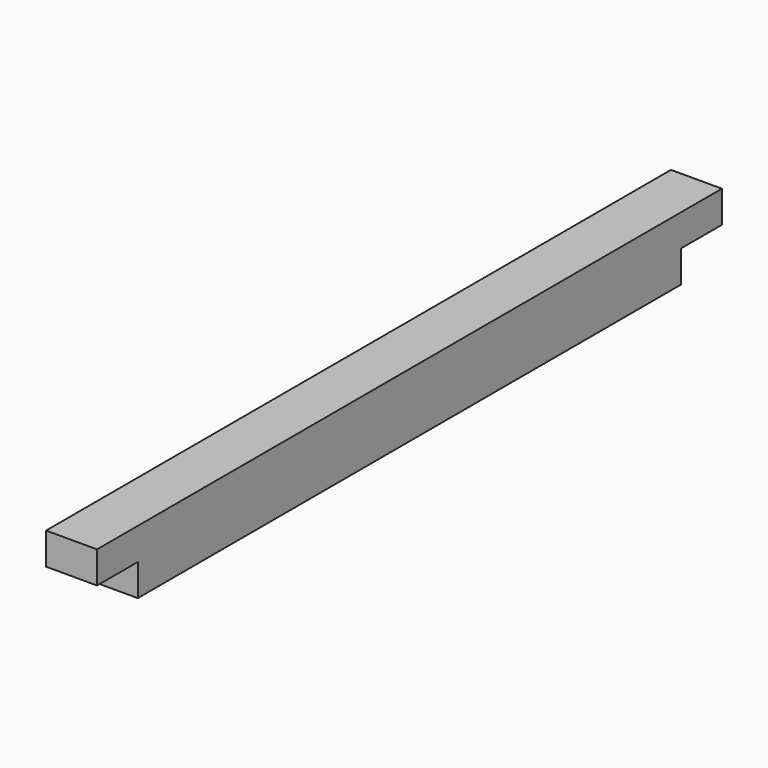
from build123d import *

# Parameters (mm, degrees)
F0_W     = 76.2
F0_H     = 95.25
F1_DEPTH = 1168.4
F2_W     = 76.2
F2_H     = 76.2
F3_DEPTH = 47.625


with BuildPart() as f1:
    # F0 (on Front) → F1 (new body)
    with BuildSketch(Plane.XZ):
        with Locations((38.1, 47.625)):
            Rectangle(F0_W, F0_H)
    extrude(amount=F1_DEPTH)

    # F2 (on face) → F3 (cut)
    with BuildSketch(Plane(origin=(0, 0, 0), x_dir=(1, 0, 0), z_dir=(0, 0, -1))):
        with Locations((38.1, 38.1)):
            Rectangle(F2_W, F2_H)
        with Locations((38.1, 1130.3)):
            Rectangle(F2_W, F2_H)
    extrude(amount=-F3_DEPTH, mode=Mode.SUBTRACT)


solid = f1.part
